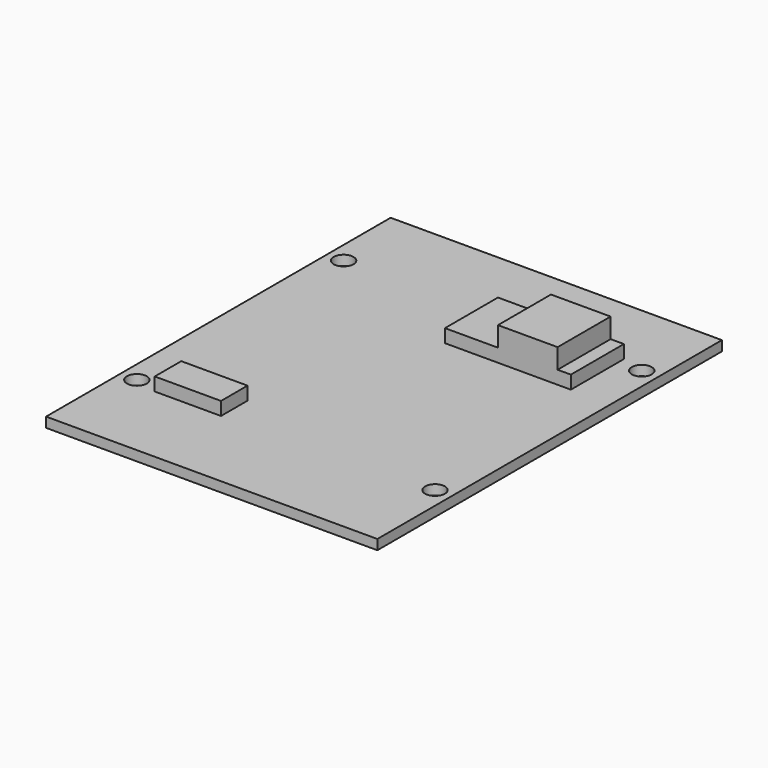
from build123d import *

# Parameters (mm, degrees)
F0_W     = 50
F0_H     = 65
F0_R     = 1.5
F1_DEPTH = 1.5
F2_W     = 10
F2_H     = 5
F3_DEPTH = 2
F2_W_2   = 9
F2_H_2   = 10
F4_DEPTH = 5
F2_W_3   = 2
F2_W_4   = 8
F5_DEPTH = 2


with BuildPart() as f1:
    # F0 (on Top) → F1 (new body)
    with BuildSketch(Plane.XY):
        with Locations((1.260573, 11.832207)):
            Rectangle(F0_W, F0_H)
        with Locations((-21.239427, -6.667793)):
            Circle(F0_R, mode=Mode.SUBTRACT)
        with Locations((23.760573, -6.667793)):
            Circle(F0_R, mode=Mode.SUBTRACT)
        with Locations((-21.239427, 32.332207)):
            Circle(F0_R, mode=Mode.SUBTRACT)
        with Locations((23.760573, 32.332207)):
            Circle(F0_R, mode=Mode.SUBTRACT)
    extrude(amount=F1_DEPTH)

    # F2 (on face) → F3 (join)
    with BuildSketch(Plane.XY.offset(1.5)):
        with Locations((-12.739427, -5.167793)):
            Rectangle(F2_W, F2_H)
    extrude(amount=F3_DEPTH)

    # F2 (on face) → F4 (join)
    with BuildSketch(Plane.XY.offset(1.5)):
        with Locations((13.760573, 28.332207)):
            Rectangle(F2_W_2, F2_H_2)
    extrude(amount=F4_DEPTH)

    # F2 (on face) → F5 (join)
    with BuildSketch(Plane.XY.offset(1.5)):
        with Locations((19.260573, 28.332207)):
            Rectangle(F2_W_3, F2_H_2)
        with Locations((5.260573, 28.332207)):
            Rectangle(F2_W_4, F2_H_2)
    extrude(amount=F5_DEPTH)


solid = f1.part
